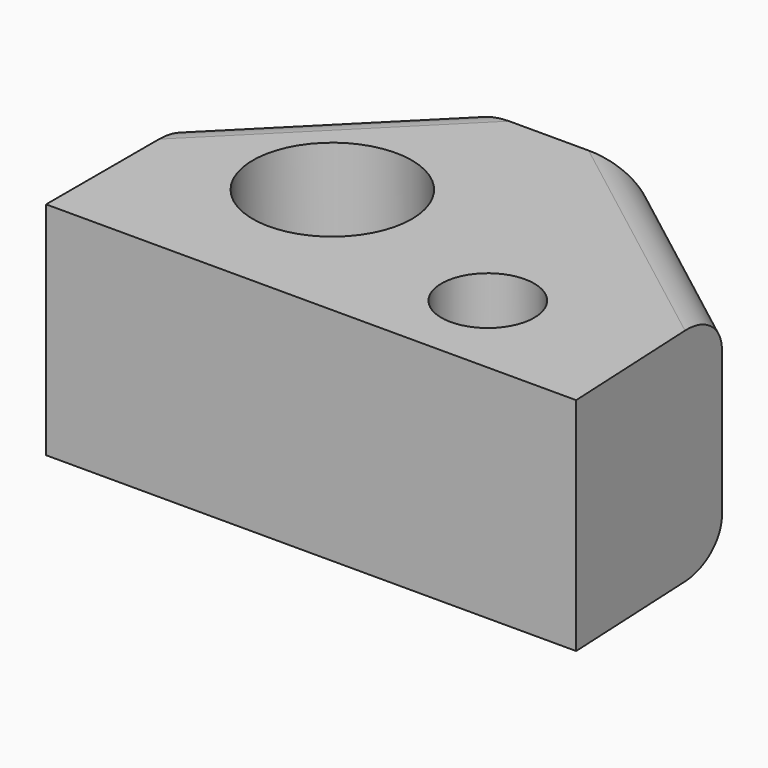
from build123d import *

# Parameters (mm, degrees)
F0_R     = 18
F0_R_2   = 10.5
F1_DEPTH = 50
F2_R     = 8.5
F3_R     = 8.5


with BuildPart() as f1:
    # F0 (on Top) → F1 (new body)
    with BuildSketch(Plane.XY):
        Polygon((0, 44), (0, 0), (120, 0), (117.837585, 43.946831), (76, 76), (32, 76), align=None)
        with Locations((36, 36)):
            Circle(F0_R, mode=Mode.SUBTRACT)
        with Locations((84, 20)):
            Circle(F0_R_2, mode=Mode.SUBTRACT)
    extrude(amount=-F1_DEPTH)

    # F2
    f2_edges = [f1.edges().sort_by_distance(p)[0] for p in [
        (96.918792, 59.973416, 0),
        (96.918792, 59.973416, -50),
    ]]
    fillet(f2_edges, radius=F2_R)

    # F3
    f3_edges = [f1.edges().sort_by_distance(p)[0] for p in [
        (16, 60, 0),
        (16, 60, -50),
    ]]
    fillet(f3_edges, radius=F3_R)


solid = f1.part
